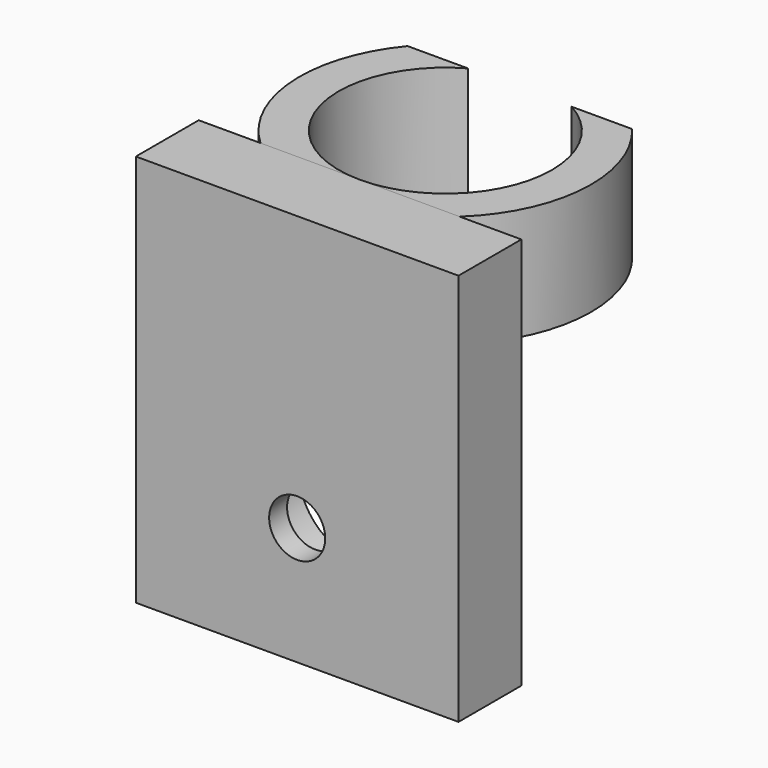
from build123d import *

# Parameters (mm, degrees)
F1_DEPTH      = 2.5
F2_DEPTH      = 15
F2_DEPTH_BACK = 2.5
F3_R          = 1.25
F4_DEPTH      = 25
F3_R_2        = 2.75
F5_DEPTH      = 2.5


with BuildPart() as f1:
    # F0 (on Top) → F1 (new body, symmetric)
    with BuildSketch(Plane.XY):
        with BuildLine():
            Line((-4.4370598373, -4.75), (0, -4.75))
            ThreePointArc((0, -4.75), (-4.5978347264, -1.1926507572), (-2.3088888707, 4.1510880721))
            Line((-2.3088888707, 4.1510880721), (-5.0018464408, 4.1510880721))
            ThreePointArc((-5.0018464408, 4.1510880721), (-6.4869546128, -0.4116064276), (-4.4370598373, -4.75))
        make_face()
    extrude(amount=F1_DEPTH, both=True)


with BuildPart() as f1b:
    # F0 (on Top) → F1, piece 2 (new body, symmetric)
    with BuildSketch(Plane.XY):
        with BuildLine():
            ThreePointArc((4.75, 0), (3.3587572106, -3.3587572106), (0, -4.75))
            Line((0, -4.75), (4.4370598373, -4.75))
            ThreePointArc((4.4370598373, -4.75), (5.9620000395, -2.5893156487), (6.5, 0))
            ThreePointArc((6.5, 0), (6.1140004034, 2.2065808545), (5.0018464408, 4.1510880721))
            Line((5.0018464408, 4.1510880721), (2.3088888707, 4.1510880721))
            ThreePointArc((2.3088888707, 4.1510880721), (4.0944915518, 2.4078286758), (4.75, 0))
        make_face()
    extrude(amount=F1_DEPTH, both=True)


with BuildPart() as f2:
    # F0 (on Top) → F2 (new body, two sides)
    with BuildSketch(Plane.XY) as f2_sk:
        with BuildLine():
            ThreePointArc((4.4370598373, -4.75), (0, -6.5), (-4.4370598373, -4.75))
            Line((-4.4370598373, -4.75), (-7.1870598373, -4.75))
            Line((-7.1870598373, -4.75), (-7.1870598373, -8.25))
            Line((-7.1870598373, -8.25), (7.1870598373, -8.25))
            Line((7.1870598373, -8.25), (7.1870598373, -4.75))
            Line((7.1870598373, -4.75), (4.4370598373, -4.75))
        make_face()
        with BuildLine():
            Line((4.4370598373, -4.75), (0, -4.75))
            Line((0, -4.75), (-4.4370598373, -4.75))
            ThreePointArc((-4.4370598373, -4.75), (0, -6.5), (4.4370598373, -4.75))
        make_face()
    extrude(amount=-F2_DEPTH)
    extrude(f2_sk.sketch, amount=F2_DEPTH_BACK)

    # F3 (on face) → F4 (cut)
    with BuildSketch(Plane(origin=(0, -4.75, 0), x_dir=(-1, 0, 0), z_dir=(0, 1, 0))):
        with Locations((0, -9.7334859893)):
            Circle(F3_R)
    extrude(amount=-F4_DEPTH, mode=Mode.SUBTRACT)

    # F3 (on face) → F5 (cut)
    with BuildSketch(Plane(origin=(0, -4.75, 0), x_dir=(-1, 0, 0), z_dir=(0, 1, 0))):
        with Locations((0, -9.7334859893)):
            Circle(F3_R_2)
        with Locations((0, -9.7334859893)):
            Circle(F3_R, mode=Mode.SUBTRACT)
    extrude(amount=-F5_DEPTH, mode=Mode.SUBTRACT)


solid = Compound([f1.part, f1b.part, f2.part])
